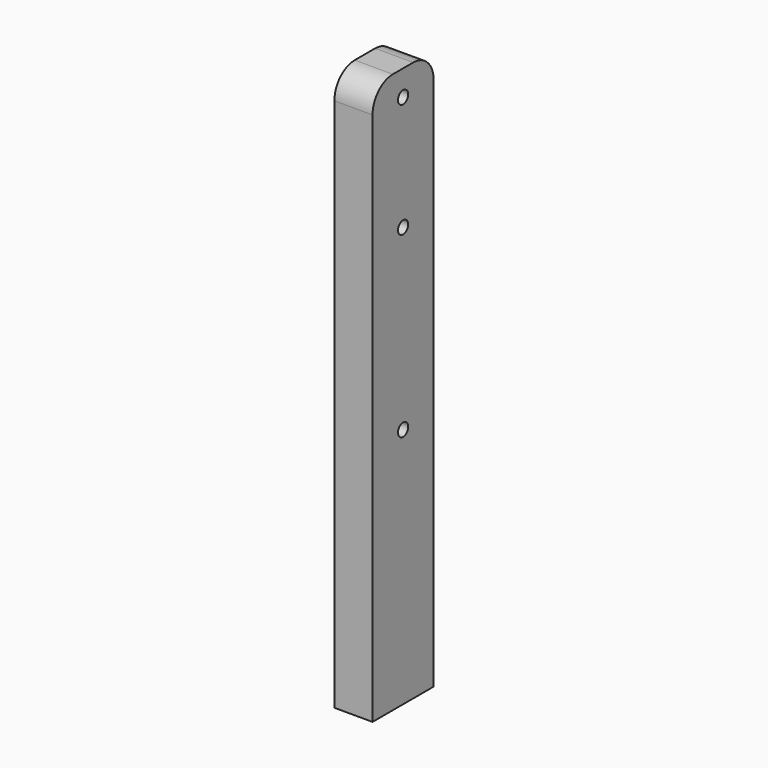
from build123d import *

# Parameters (mm, degrees)
F0_R     = 2.5
F1_DEPTH = 15


with BuildPart() as f1:
    # F0 (on Right) → F1 (new body)
    with BuildSketch(Plane.YZ):
        with BuildLine():
            Line((0, 210), (0, 0))
            Line((0, 0), (30, 0))
            Line((30, 0), (30, 210))
            ThreePointArc((30, 210), (27.071068, 217.071068), (20, 220))
            Line((20, 220), (10, 220))
            ThreePointArc((10, 220), (2.928932, 217.071068), (0, 210))
        make_face()
        with Locations((15, 95)):
            Circle(F0_R, mode=Mode.SUBTRACT)
        with Locations((15, 165)):
            Circle(F0_R, mode=Mode.SUBTRACT)
        with Locations((15, 210)):
            Circle(F0_R, mode=Mode.SUBTRACT)
    extrude(amount=F1_DEPTH)


solid = f1.part
